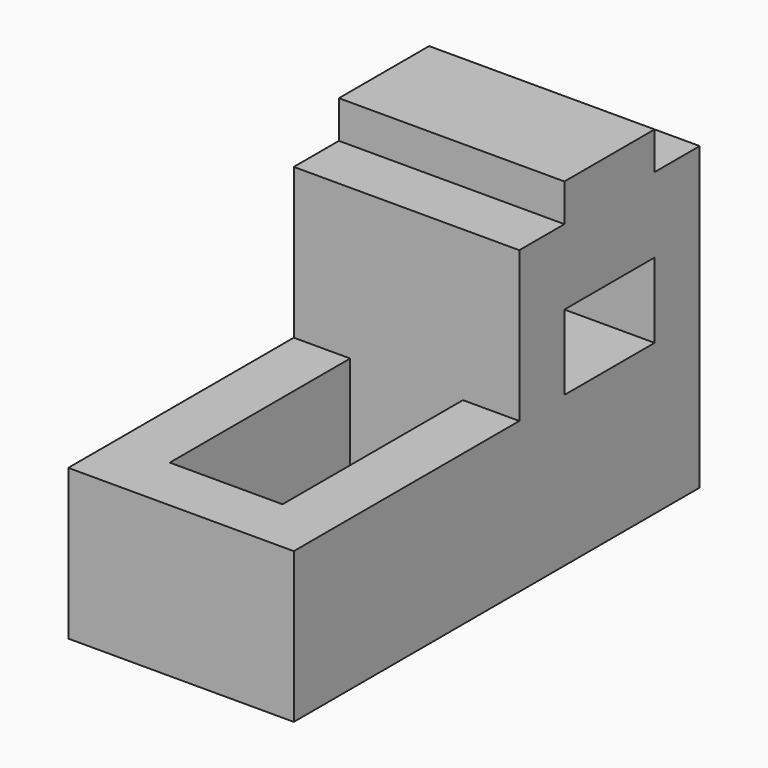
from build123d import *

# Parameters (mm, degrees)
F1_DEPTH = 1219.2
F2_W     = 609.6
F2_H     = 1219.2
F3_DEPTH = 609.6
F4_W     = 609.6
F4_H     = 406.4
F5_DEPTH = 1219.201


with BuildPart() as f1:
    # F0 (on Right) → F1 (new body)
    with BuildSketch(Plane.YZ):
        Polygon((-66.1643, 0), (-66.1643, -812.8), (2677.0357, -812.8), (2677.0357, 812.8), (2372.2357, 812.8), (2372.2357, 1016), (1762.6357, 1016), (1762.6357, 812.8), (1457.8357, 812.8), (1457.8357, 0), align=None)
    extrude(amount=-F1_DEPTH)

    # F2 (on face) → F3 (cut)
    with BuildSketch(Plane.XY):
        with Locations((-609.6, 848.2357)):
            Rectangle(F2_W, F2_H)
    extrude(amount=-F3_DEPTH, mode=Mode.SUBTRACT)

    # F4 (on face) → F5 (cut, through all)
    with BuildSketch(Plane.YZ):
        with Locations((2067.4357, 203.2)):
            Rectangle(F4_W, F4_H)
    extrude(amount=-F5_DEPTH, mode=Mode.SUBTRACT)


solid = f1.part
